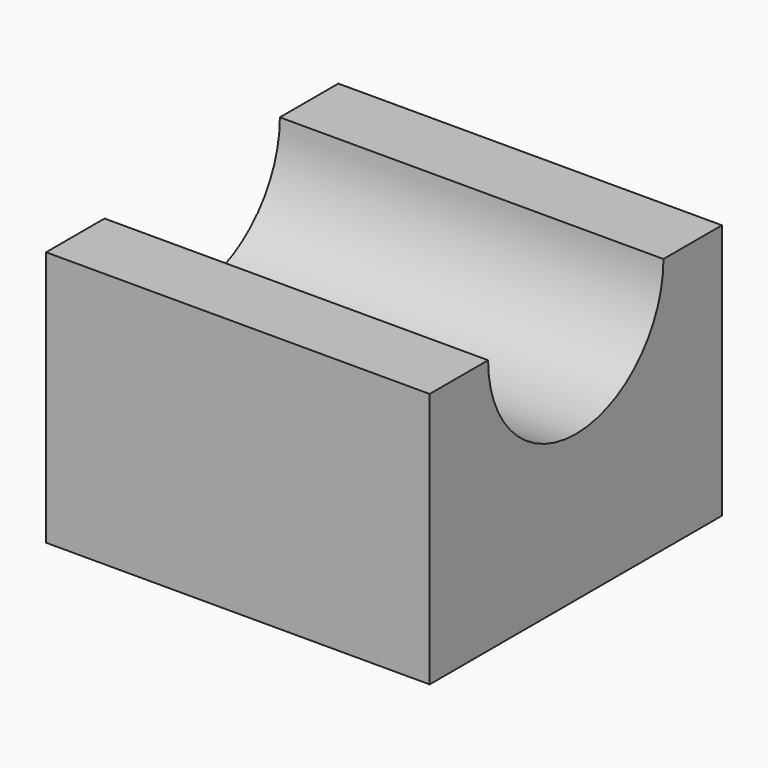
from build123d import *

# Parameters (mm, degrees)
F1_DEPTH = 1066.8


with BuildPart() as f1:
    # F0 (on Right) → F1 (new body)
    with BuildSketch(Plane.YZ):
        with BuildLine():
            Line((-1016, 0), (0, 0))
            Line((0, 0), (0, 711.2))
            Line((0, 711.2), (-203.2, 711.2))
            ThreePointArc((-203.2, 711.2), (-508, 406.4), (-812.8, 711.2))
            Line((-812.8, 711.2), (-1016, 711.2))
            Line((-1016, 711.2), (-1016, 0))
        make_face()
    extrude(amount=F1_DEPTH)


solid = f1.part
